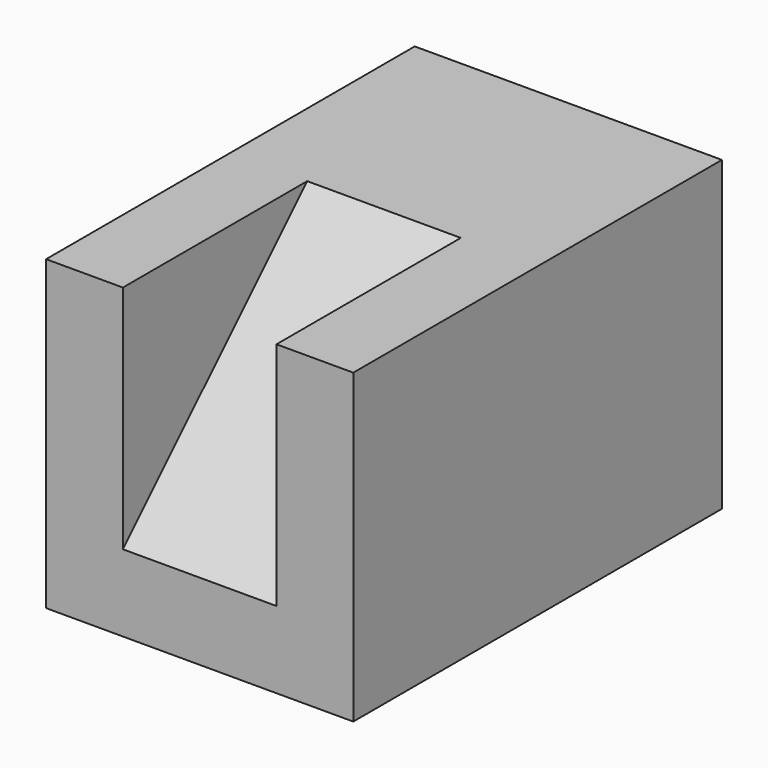
from build123d import *

# Parameters (mm, degrees)
F1_DEPTH = 25.4
F2_START = -6.35
F2_DEPTH = 12.7


with BuildPart() as f1:
    # F0 (on Right) → F1 (new body)
    with BuildSketch(Plane.YZ):
        Polygon((-1.2227895657, 10.83428575), (-20.2727895657, 10.83428575), (-20.2727895657, -8.21571425), align=None)
        Polygon((-1.2227895657, 10.83428575), (-20.2727895657, -8.21571425), (-20.2727895657, -14.56571425), (17.8272104343, -14.56571425), (17.8272104343, 10.83428575), align=None)
    extrude(amount=-F1_DEPTH)

    # F0 (on Right) → F2 (cut)
    with BuildSketch(Plane.YZ.offset(F2_START)):
        Polygon((-1.2227895657, 10.83428575), (-20.2727895657, 10.83428575), (-20.2727895657, -8.21571425), align=None)
    extrude(amount=-F2_DEPTH, mode=Mode.SUBTRACT)


solid = f1.part
